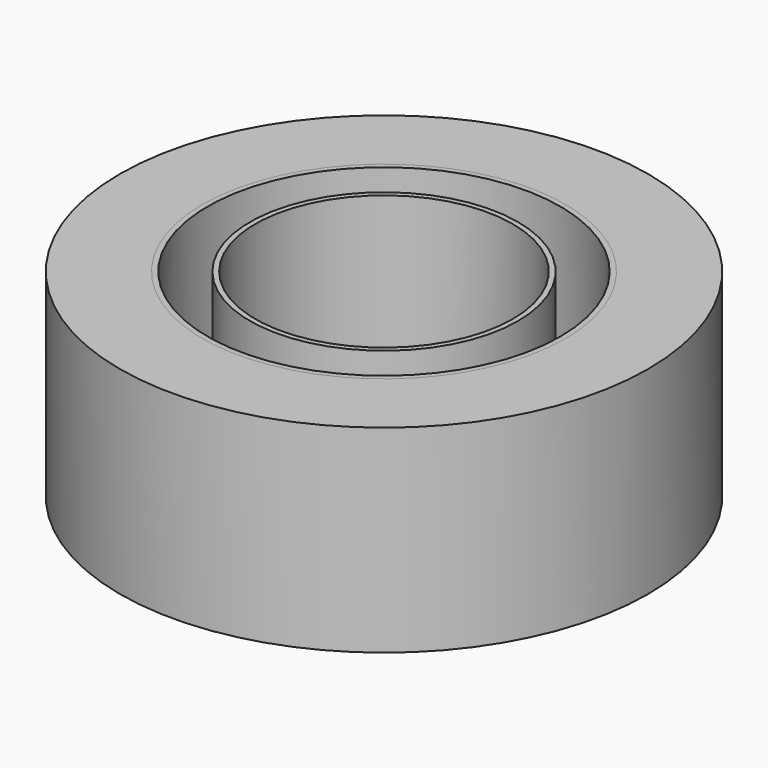
from build123d import *

# Parameters (mm, degrees)
F0_R     = 25.4
F0_R_2   = 17.4625
F1_DEPTH = 19.05
F2_R     = 17.4625
F2_R_2   = 12.3825
F3_DEPTH = 19.05
F4_R     = 16.9545
F4_R_2   = 12.8905
F5_DEPTH = 12.7


with BuildPart() as f1:
    # F0 (on Top) → F1 (new body)
    with BuildSketch(Plane.XY):
        Circle(F0_R)
        Circle(F0_R_2, mode=Mode.SUBTRACT)
    extrude(amount=F1_DEPTH)


with BuildPart() as f3:
    # F2 (on Top) → F3 (new body)
    with BuildSketch(Plane.XY):
        Circle(F2_R)
        Circle(F2_R_2, mode=Mode.SUBTRACT)
    extrude(amount=F3_DEPTH)

    # F4 (on face) → F5 (cut)
    with BuildSketch(Plane.XY.offset(19.05)):
        Circle(F4_R)
        Circle(F4_R_2, mode=Mode.SUBTRACT)
    extrude(amount=-F5_DEPTH, mode=Mode.SUBTRACT)


solid = Compound([f1.part, f3.part])
